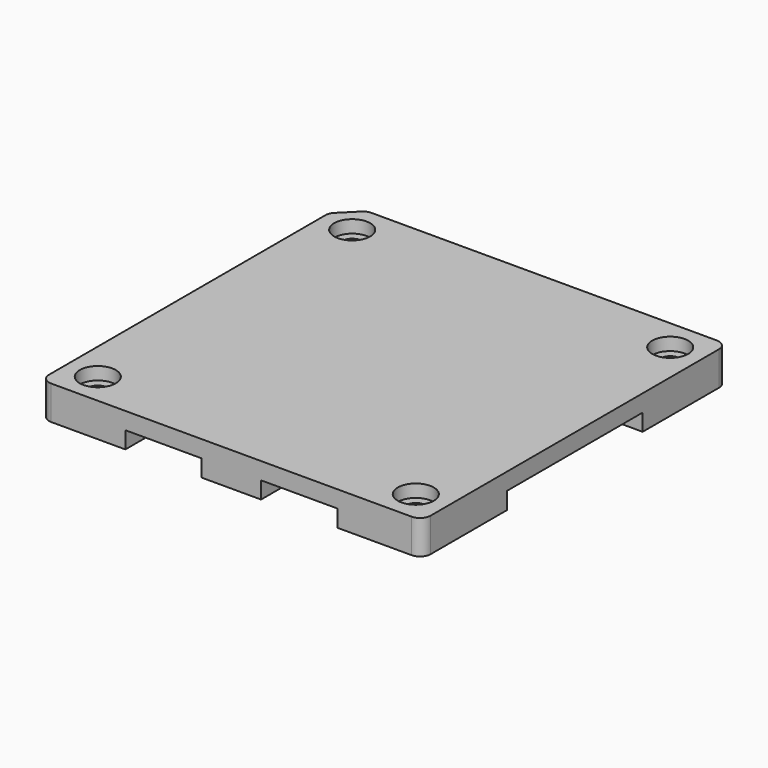
from build123d import *

# Parameters (mm, degrees)
SKETCH_W        = 90
SKETCH_H        = 90
SKETCH_R        = 2.25
PAD_DEPTH       = 8
SKETCH001_R     = 4.25
POCKET_DEPTH    = 3
CHAMFER_SIZE    = 5
POCKET001_DEPTH = 4
FILLET_R        = 2.5
CHAMFER001_SIZE = 2.5


with BuildPart() as part:
    # Sketch → Pad (new body)
    with BuildSketch(Plane.XY):
        Rectangle(SKETCH_W, SKETCH_H)
        with Locations((-37.5, 37.5)):
            Circle(SKETCH_R, mode=Mode.SUBTRACT)
        with Locations((37.5, 37.5)):
            Circle(SKETCH_R, mode=Mode.SUBTRACT)
        with Locations((-37.5, -37.5)):
            Circle(SKETCH_R, mode=Mode.SUBTRACT)
        with Locations((37.5, -37.5)):
            Circle(SKETCH_R, mode=Mode.SUBTRACT)
    extrude(amount=PAD_DEPTH)

    # Sketch001 (on Face10 of Pad) → Pocket (cut)
    with BuildSketch(Plane.XY.offset(8)):
        with Locations((-37.5, 37.5)):
            Circle(SKETCH001_R)
        with Locations((37.5, 37.5)):
            Circle(SKETCH001_R)
        with Locations((-37.5, -37.5)):
            Circle(SKETCH001_R)
        with Locations((37.5, -37.5)):
            Circle(SKETCH001_R)
    extrude(amount=-POCKET_DEPTH, mode=Mode.SUBTRACT)

    # Chamfer
    chamfer_edges = [part.edges().sort_by_distance(p)[0] for p in [
        (-45, 45, 4),
    ]]
    chamfer(chamfer_edges, length=CHAMFER_SIZE)

    # Sketch002 (on Face2 of Chamfer) → Pocket001 (cut)
    with BuildSketch(Plane(origin=(0, 0, 0), x_dir=(1, 0, 0), z_dir=(0, 0, -1))):
        Polygon((-45, 20), (-25, 20), (-25, 45), (-7, 45), (-7, -20), (-45, -20), align=None)
        Polygon((45, 20), (25, 20), (25, 45), (7, 45), (7, -20), (45, -20), align=None)
    extrude(amount=-POCKET001_DEPTH, mode=Mode.SUBTRACT)

    # Fillet
    fillet_edges = [part.edges().sort_by_distance(p)[0] for p in [
        (45, -45, 4),
        (45, 45, 4),
        (-45, -45, 4),
        (-40, 45, 4),
        (-45, 40, 4),
    ]]
    fillet(fillet_edges, radius=FILLET_R)

    # Chamfer001
    chamfer001_edges = [part.edges().sort_by_distance(p)[0] for p in [
        (25, -20, 2),
        (-25, -20, 2),
    ]]
    chamfer(chamfer001_edges, length=CHAMFER001_SIZE)


solid = part.part
